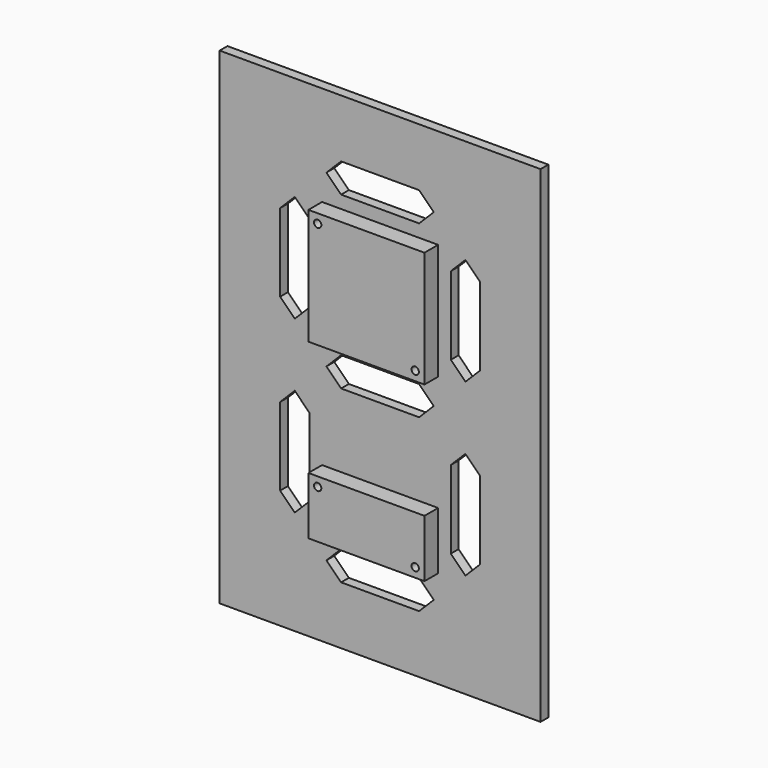
from build123d import *

# Parameters (mm, degrees)
SKETCH024_W     = 65.8
SKETCH024_H     = 99.8
PAD016_DEPTH    = 2
SKETCH166_W     = 23.8
SKETCH166_H     = 23.8
SKETCH166_H_2   = 11.8
PAD112_DEPTH    = 3.5
SKETCH302_R     = 0.75
POCKET047_DEPTH = 4


with BuildPart() as part:
    # Sketch024 → Pad016 (new body)
    with BuildSketch(Plane.XZ):
        Rectangle(SKETCH024_W, SKETCH024_H)
        Polygon((8, 38), (-8, 38), (-11, 35), (-8, 32), (8, 32), (11, 35), align=None, mode=Mode.SUBTRACT)
        Polygon((-14.5, 25.5), (-17.5, 28.5), (-20.5, 25.5), (-20.5, 9.5), (-17.5, 6.5), (-14.5, 9.5), align=None, mode=Mode.SUBTRACT)
        Polygon((-14.5, -9.5), (-17.5, -6.5), (-20.5, -9.5), (-20.5, -25.5), (-17.5, -28.5), (-14.5, -25.5), align=None, mode=Mode.SUBTRACT)
        Polygon((8, -32), (-8, -32), (-11, -35), (-8, -38), (8, -38), (11, -35), align=None, mode=Mode.SUBTRACT)
        Polygon((20.5, 25.5), (17.5, 28.5), (14.5, 25.5), (14.5, 9.5), (17.5, 6.5), (20.5, 9.5), align=None, mode=Mode.SUBTRACT)
        Polygon((20.5, -9.5), (17.5, -6.5), (14.5, -9.5), (14.5, -25.5), (17.5, -28.5), (20.5, -25.5), align=None, mode=Mode.SUBTRACT)
        Polygon((8, 3), (-8, 3), (-11, 0), (-8, -3), (8, -3), (11, 0), align=None, mode=Mode.SUBTRACT)
    extrude(amount=PAD016_DEPTH)

    # Sketch166 (on Face48 of Pad016) → Pad112 (join)
    with BuildSketch(Plane.XZ.offset(2)):
        with Locations((0, 17.5)):
            Rectangle(SKETCH166_W, SKETCH166_H)
        with Locations((0, -24)):
            Rectangle(SKETCH166_W, SKETCH166_H_2)
    extrude(amount=PAD112_DEPTH)

    # Sketch302 (on Face58 of Pad112) → Pocket047 (cut)
    with BuildSketch(Plane.XZ.offset(5.5)):
        with Locations((-10, 27.5)):
            Circle(SKETCH302_R)
        with Locations((10, 7.5)):
            Circle(SKETCH302_R)
        with Locations((-10, -20)):
            Circle(SKETCH302_R)
        with Locations((10, -28)):
            Circle(SKETCH302_R)
    extrude(amount=-POCKET047_DEPTH, mode=Mode.SUBTRACT)


with BuildPart() as part_1:
    # Body009 placement: moved
    add(part.part.moved(Location((0, 12, 0))))


solid = part_1.part
